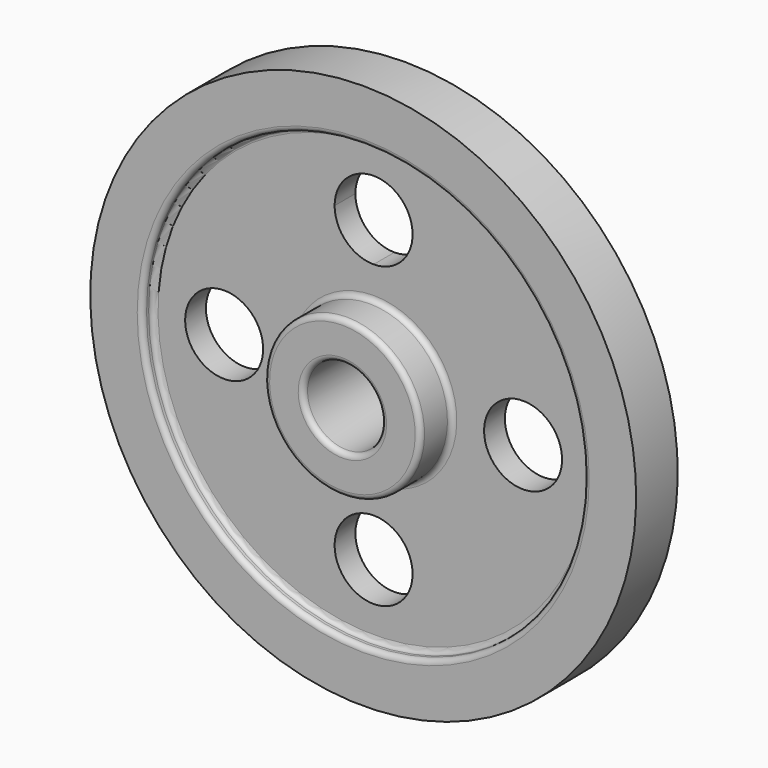
from build123d import *

# Parameters (mm, degrees)
F2_R     = 19.05
F3_DEPTH = 25.4
F4_R     = 2.54
F5_SIZE  = 1.5875


with BuildPart() as f1:
    # F0 (on Right) → F1 (revolve)
    with BuildSketch(Plane.YZ):
        Polygon((-12.7, 19.05), (0, 19.05), (0, 107.868887), (-6.35, 107.868887), (-6.35, 38.1), (-25.4, 38.1), (-25.4, 19.05), align=None)
        Polygon((0, 19.05), (12.7, 19.05), (25.4, 19.05), (25.4, 38.1), (6.35, 38.1), (6.35, 107.868887), (0, 107.868887), align=None)
        Polygon((-6.35, 107.868887), (0, 107.868887), (0, 133.35), (-12.7, 133.35), (-12.7, 107.868887), align=None)
        Polygon((0, 133.35), (0, 107.868887), (6.35, 107.868887), (12.7, 107.868887), (12.7, 133.35), align=None)
    revolve(axis=Axis((0, 37.4904, 0), (0, 1, 0)))

    # F2 (on face) → F3 (cut)
    with BuildSketch(Plane(origin=(0, 6.35, 0), x_dir=(-1, 0, 0), z_dir=(0, 1, 0))):
        with Locations((-73.025, 0)):
            Circle(F2_R)
        with BuildLine():
            ThreePointArc((19.05, 73.025), (-13.470384, 86.495384), (0, 53.975))
            ThreePointArc((0, 53.975), (13.470384, 59.554616), (19.05, 73.025))
        make_face()
        with Locations((73.025, 0)):
            Circle(F2_R)
        with Locations((0, -73.025)):
            Circle(F2_R)
    extrude(amount=-F3_DEPTH, mode=Mode.SUBTRACT)

    # F4
    f4_edges = [f1.edges().sort_by_distance(p)[0] for p in [
        (0, 6.35, -107.868887),
        (0, 12.7, -107.868887),
        (0, 25.4, -38.1),
        (0, 6.35, -38.1),
        (0, -6.35, -107.868887),
        (0, -12.7, -107.868887),
        (0, -25.4, -38.1),
        (0, -25.4, -19.05),
        (0, -6.35, -38.1),
    ]]
    fillet(f4_edges, radius=F4_R)

    # F5
    f5_edges = [f1.edges().sort_by_distance(p)[0] for p in [
        (0, 25.4, -19.05),
    ]]
    chamfer(f5_edges, length=F5_SIZE)


solid = f1.part
